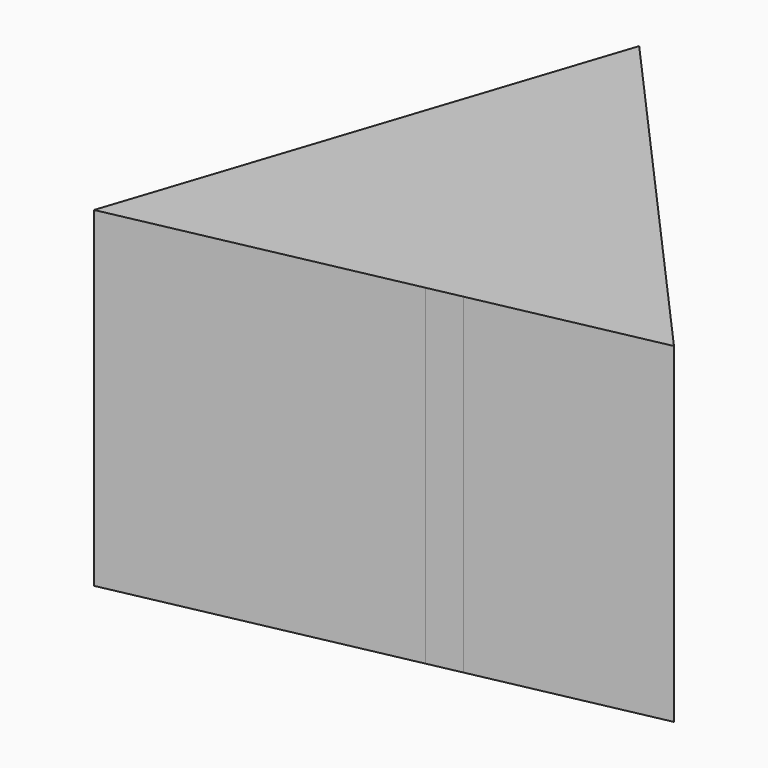
from build123d import *

# Parameters (mm, degrees)
F1_DEPTH = 115.57


with BuildPart() as f1:
    # F0 (on Top) → F1 (new body)
    with BuildSketch(Plane.XY):
        Polygon((103.221436145, -53.8007080909), (-14.8500475308, 78.6029756424), (-56.6983165312, -48.1207240324), (-0.6158898202, 27.4022637386), (40.1904460134, -66.8826025271), align=None)
        Polygon((28.7687712922, -69.2531371272), (-60.2760904722, -58.9548340499), (-70.4792593606, -89.85177055), align=None)
        Polygon((-0.6158898202, 27.4022637386), (-56.6983165312, -48.1207240324), (-60.2760904722, -58.9548340499), (28.7687712922, -69.2531371272), (40.1904460134, -66.8826025271), align=None)
    extrude(amount=F1_DEPTH)


solid = f1.part
